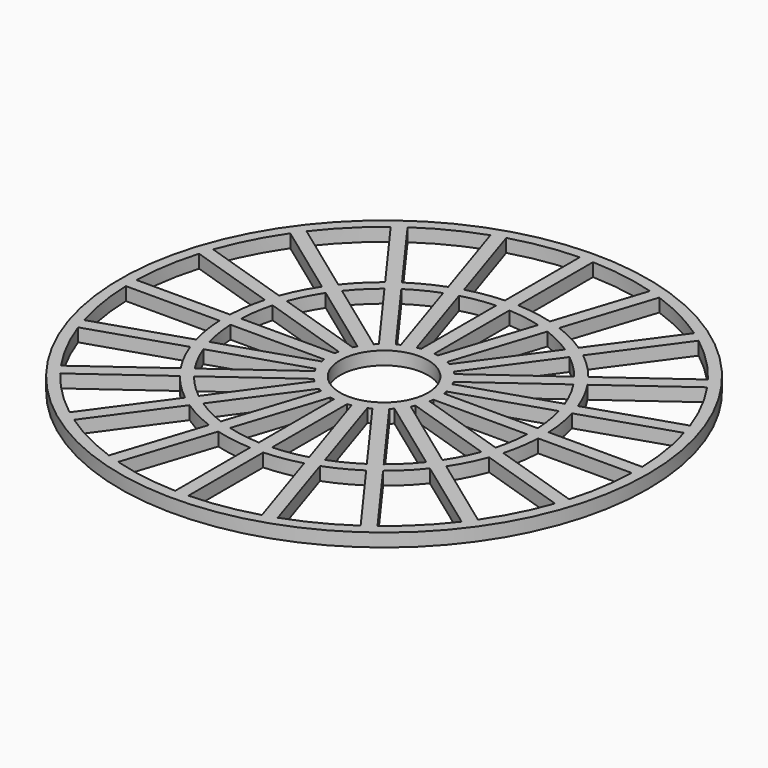
from build123d import *

# Parameters (mm, degrees)
F1_R     = 60
F1_R_2   = 10
F2_DEPTH = 3
F3_DEPTH = 25


with BuildPart() as f2:
    # F1 (on Top) → F2 (new body)
    with BuildSketch(Plane.XY):
        Circle(F1_R)
        Circle(F1_R_2, mode=Mode.SUBTRACT)
    extrude(amount=F2_DEPTH)

    # F0 (on Top) → F3 (cut)
    with BuildSketch(Plane.XY):
        with BuildLine():
            ThreePointArc((10.9213147527, 6.0806976633), (11.1375815524, 5.6748812467), (11.3387754946, 5.2613848257))
            Line((11.3387754946, 5.2613848257), (31.6029143788, 11.8456026764))
            ThreePointArc((31.6029143788, 11.8456026764), (30.0714701914, 15.3221793662), (28.1590208751, 18.6046242465))
            Line((28.1590208751, 18.6046242465), (10.9213147527, 6.0806976633))
        make_face()
        with BuildLine():
            ThreePointArc((8.5077486464, 9.1579589958), (8.8388347648, 8.8388347648), (9.1579589958, 8.5077486464))
            Line((9.1579589958, 8.5077486464), (26.3956651182, 21.0316752296))
            ThreePointArc((26.3956651182, 21.0316752296), (23.864853865, 23.864853865), (21.0316752296, 26.3956651182))
            Line((21.0316752296, 26.3956651182), (8.5077486464, 9.1579589958))
        make_face()
        with BuildLine():
            ThreePointArc((5.2613848257, 11.3387754946), (5.6748812467, 11.1375815524), (6.0806976633, 10.9213147527))
            Line((6.0806976633, 10.9213147527), (18.6046242465, 28.1590208751))
            ThreePointArc((18.6046242465, 28.1590208751), (15.3221793662, 30.0714701914), (11.8456026764, 31.6029143788))
            Line((11.8456026764, 31.6029143788), (5.2613848257, 11.3387754946))
        make_face()
        with BuildLine():
            ThreePointArc((1.5, 12.409673646), (1.955430813, 12.3461042574), (2.4082152768, 12.2658264777))
            Line((2.4082152768, 12.2658264777), (8.9924331275, 32.5299653619))
            ThreePointArc((8.9924331275, 32.5299653619), (5.2796631951, 33.3344814951), (1.5, 33.7166501895))
            Line((1.5, 33.7166501895), (1.5, 12.409673646))
        make_face()
        with BuildLine():
            Line((-32.5299653619, -8.9924331275), (-12.2658264777, -2.4082152768))
            ThreePointArc((-12.2658264777, -2.4082152768), (-12.3461042574, -1.955430813), (-12.409673646, -1.5))
            Line((-12.409673646, -1.5), (-33.7166501895, -1.5))
            ThreePointArc((-33.7166501895, -1.5), (-33.3344814951, -5.2796631951), (-32.5299653619, -8.9924331275))
        make_face()
        with BuildLine():
            Line((-28.1590208751, -18.6046242465), (-10.9213147527, -6.0806976633))
            ThreePointArc((-10.9213147527, -6.0806976633), (-11.1375815524, -5.6748812467), (-11.3387754946, -5.2613848257))
            Line((-11.3387754946, -5.2613848257), (-31.6029143788, -11.8456026764))
            ThreePointArc((-31.6029143788, -11.8456026764), (-30.0714701914, -15.3221793662), (-28.1590208751, -18.6046242465))
        make_face()
        with BuildLine():
            Line((-21.0316752296, -26.3956651182), (-8.5077486464, -9.1579589958))
            ThreePointArc((-8.5077486464, -9.1579589958), (-8.8388347648, -8.8388347648), (-9.1579589958, -8.5077486464))
            Line((-9.1579589958, -8.5077486464), (-26.3956651182, -21.0316752296))
            ThreePointArc((-26.3956651182, -21.0316752296), (-23.864853865, -23.864853865), (-21.0316752296, -26.3956651182))
        make_face()
        with BuildLine():
            Line((-11.8456026764, -31.6029143788), (-5.2613848257, -11.3387754946))
            ThreePointArc((-5.2613848257, -11.3387754946), (-5.6748812467, -11.1375815524), (-6.0806976633, -10.9213147527))
            Line((-6.0806976633, -10.9213147527), (-18.6046242465, -28.1590208751))
            ThreePointArc((-18.6046242465, -28.1590208751), (-15.3221793662, -30.0714701914), (-11.8456026764, -31.6029143788))
        make_face()
        with BuildLine():
            Line((-1.5, -33.7166501895), (-1.5, -12.409673646))
            ThreePointArc((-1.5, -12.409673646), (-1.955430813, -12.3461042574), (-2.4082152768, -12.2658264777))
            Line((-2.4082152768, -12.2658264777), (-8.9924331275, -32.5299653619))
            ThreePointArc((-8.9924331275, -32.5299653619), (-5.2796631951, -33.3344814951), (-1.5, -33.7166501895))
        make_face()
        with BuildLine():
            Line((8.9924331275, -32.5299653619), (2.4082152768, -12.2658264777))
            ThreePointArc((2.4082152768, -12.2658264777), (1.955430813, -12.3461042574), (1.5, -12.409673646))
            Line((1.5, -12.409673646), (1.5, -33.7166501895))
            ThreePointArc((1.5, -33.7166501895), (5.2796631951, -33.3344814951), (8.9924331275, -32.5299653619))
        make_face()
        with BuildLine():
            Line((18.6046242465, -28.1590208751), (6.0806976633, -10.9213147527))
            ThreePointArc((6.0806976633, -10.9213147527), (5.6748812467, -11.1375815524), (5.2613848257, -11.3387754946))
            Line((5.2613848257, -11.3387754946), (11.8456026764, -31.6029143788))
            ThreePointArc((11.8456026764, -31.6029143788), (15.3221793662, -30.0714701914), (18.6046242465, -28.1590208751))
        make_face()
        with BuildLine():
            Line((26.3956651182, -21.0316752296), (9.1579589958, -8.5077486464))
            ThreePointArc((9.1579589958, -8.5077486464), (8.8388347648, -8.8388347648), (8.5077486464, -9.1579589958))
            Line((8.5077486464, -9.1579589958), (21.0316752296, -26.3956651182))
            ThreePointArc((21.0316752296, -26.3956651182), (23.864853865, -23.864853865), (26.3956651182, -21.0316752296))
        make_face()
        with BuildLine():
            Line((31.6029143788, -11.8456026764), (11.3387754946, -5.2613848257))
            ThreePointArc((11.3387754946, -5.2613848257), (11.1375815524, -5.6748812467), (10.9213147527, -6.0806976633))
            Line((10.9213147527, -6.0806976633), (28.1590208751, -18.6046242465))
            ThreePointArc((28.1590208751, -18.6046242465), (30.0714701914, -15.3221793662), (31.6029143788, -11.8456026764))
        make_face()
        with BuildLine():
            ThreePointArc((12.2658264777, 2.4082152768), (12.3461042574, 1.955430813), (12.409673646, 1.5))
            Line((12.409673646, 1.5), (33.7166501895, 1.5))
            ThreePointArc((33.7166501895, 1.5), (33.3344814951, 5.2796631951), (32.5299653619, 8.9924331275))
            Line((32.5299653619, 8.9924331275), (12.2658264777, 2.4082152768))
        make_face()
        with BuildLine():
            Line((33.7166501895, -1.5), (12.409673646, -1.5))
            ThreePointArc((12.409673646, -1.5), (12.3461042574, -1.955430813), (12.2658264777, -2.4082152768))
            Line((12.2658264777, -2.4082152768), (32.5299653619, -8.9924331275))
            ThreePointArc((32.5299653619, -8.9924331275), (33.3344814951, -5.2796631951), (33.7166501895, -1.5))
        make_face()
        with BuildLine():
            ThreePointArc((-12.409673646, 1.5), (-12.3461042574, 1.955430813), (-12.2658264777, 2.4082152768))
            Line((-12.2658264777, 2.4082152768), (-32.5299653619, 8.9924331275))
            ThreePointArc((-32.5299653619, 8.9924331275), (-33.3344814951, 5.2796631951), (-33.7166501895, 1.5))
            Line((-33.7166501895, 1.5), (-12.409673646, 1.5))
        make_face()
        with BuildLine():
            ThreePointArc((-11.3387754946, 5.2613848257), (-11.1375815524, 5.6748812467), (-10.9213147527, 6.0806976633))
            Line((-10.9213147527, 6.0806976633), (-28.1590208751, 18.6046242465))
            ThreePointArc((-28.1590208751, 18.6046242465), (-30.0714701914, 15.3221793662), (-31.6029143788, 11.8456026764))
            Line((-31.6029143788, 11.8456026764), (-11.3387754946, 5.2613848257))
        make_face()
        with BuildLine():
            ThreePointArc((-9.1579589958, 8.5077486464), (-8.8388347648, 8.8388347648), (-8.5077486464, 9.1579589958))
            Line((-8.5077486464, 9.1579589958), (-21.0316752296, 26.3956651182))
            ThreePointArc((-21.0316752296, 26.3956651182), (-23.864853865, 23.864853865), (-26.3956651182, 21.0316752296))
            Line((-26.3956651182, 21.0316752296), (-9.1579589958, 8.5077486464))
        make_face()
        with BuildLine():
            ThreePointArc((-6.0806976633, 10.9213147527), (-5.6748812467, 11.1375815524), (-5.2613848257, 11.3387754946))
            Line((-5.2613848257, 11.3387754946), (-11.8456026764, 31.6029143788))
            ThreePointArc((-11.8456026764, 31.6029143788), (-15.3221793662, 30.0714701914), (-18.6046242465, 28.1590208751))
            Line((-18.6046242465, 28.1590208751), (-6.0806976633, 10.9213147527))
        make_face()
        with BuildLine():
            ThreePointArc((-2.4082152768, 12.2658264777), (-1.955430813, 12.3461042574), (-1.5, 12.409673646))
            Line((-1.5, 12.409673646), (-1.5, 33.7166501895))
            ThreePointArc((-1.5, 33.7166501895), (-5.2796631951, 33.3344814951), (-8.9924331275, 32.5299653619))
            Line((-8.9924331275, 32.5299653619), (-2.4082152768, 12.2658264777))
        make_face()
        with BuildLine():
            ThreePointArc((-36.2189522212, 1.5), (-35.8037023466, 5.6707493577), (-34.9097960149, 9.7656869804))
            Line((-34.9097960149, 9.7656869804), (-55.1306643842, 16.3358453885))
            ThreePointArc((-55.1306643842, 16.3358453885), (-56.7920795842, 8.9949817398), (-57.4804314528, 1.5))
            Line((-57.4804314528, 1.5), (-36.2189522212, 1.5))
        make_face()
        with BuildLine():
            Line((-55.1306643842, -16.3358453885), (-34.9097960149, -9.7656869804))
            ThreePointArc((-34.9097960149, -9.7656869804), (-35.8037023466, -5.6707493577), (-36.2189522212, -1.5))
            Line((-36.2189522212, -1.5), (-57.4804314528, -1.5))
            ThreePointArc((-57.4804314528, -1.5), (-56.7920795842, -8.9949817398), (-55.1306643842, -16.3358453885))
        make_face()
        with BuildLine():
            Line((-47.3843237678, -32.5726244118), (-30.1834257438, -20.0754404775))
            ThreePointArc((-30.1834257438, -20.0754404775), (-32.2989865018, -16.4571556156), (-33.9827450318, -12.6188565292))
            Line((-33.9827450318, -12.6188565292), (-54.2036134011, -19.1890149374))
            ThreePointArc((-54.2036134011, -19.1890149374), (-51.2328751408, -26.104453735), (-47.3843237678, -32.5726244118))
        make_face()
        with BuildLine():
            Line((-34.9996753949, -45.6209680109), (-22.5024914607, -28.4200699869))
            ThreePointArc((-22.5024914607, -28.4200699869), (-25.632620818, -25.632620818), (-28.4200699869, -22.5024914607))
            Line((-28.4200699869, -22.5024914607), (-45.6209680109, -34.9996753949))
            ThreePointArc((-45.6209680109, -34.9996753949), (-40.6586399182, -40.6586399182), (-34.9996753949, -45.6209680109))
        make_face()
        with BuildLine():
            Line((-19.1890149374, -54.2036134011), (-12.6188565292, -33.9827450318))
            ThreePointArc((-12.6188565292, -33.9827450318), (-16.4571556156, -32.2989865018), (-20.0754404775, -30.1834257438))
            Line((-20.0754404775, -30.1834257438), (-32.5726244118, -47.3843237678))
            ThreePointArc((-32.5726244118, -47.3843237678), (-26.104453735, -51.2328751408), (-19.1890149374, -54.2036134011))
        make_face()
        with BuildLine():
            Line((-1.5, -57.4804314528), (-1.5, -36.2189522212))
            ThreePointArc((-1.5, -36.2189522212), (-5.6707493577, -35.8037023466), (-9.7656869804, -34.9097960149))
            Line((-9.7656869804, -34.9097960149), (-16.3358453885, -55.1306643842))
            ThreePointArc((-16.3358453885, -55.1306643842), (-8.9949817398, -56.7920795842), (-1.5, -57.4804314528))
        make_face()
        with BuildLine():
            Line((16.3358453885, -55.1306643842), (9.7656869804, -34.9097960149))
            ThreePointArc((9.7656869804, -34.9097960149), (5.6707493577, -35.8037023466), (1.5, -36.2189522212))
            Line((1.5, -36.2189522212), (1.5, -57.4804314528))
            ThreePointArc((1.5, -57.4804314528), (8.9949817398, -56.7920795842), (16.3358453885, -55.1306643842))
        make_face()
        with BuildLine():
            Line((32.5726244118, -47.3843237678), (20.0754404775, -30.1834257438))
            ThreePointArc((20.0754404775, -30.1834257438), (16.4571556156, -32.2989865018), (12.6188565292, -33.9827450318))
            Line((12.6188565292, -33.9827450318), (19.1890149374, -54.2036134011))
            ThreePointArc((19.1890149374, -54.2036134011), (26.104453735, -51.2328751408), (32.5726244118, -47.3843237678))
        make_face()
        with BuildLine():
            Line((45.6209680109, -34.9996753949), (28.4200699869, -22.5024914607))
            ThreePointArc((28.4200699869, -22.5024914607), (25.632620818, -25.632620818), (22.5024914607, -28.4200699869))
            Line((22.5024914607, -28.4200699869), (34.9996753949, -45.6209680109))
            ThreePointArc((34.9996753949, -45.6209680109), (40.6586399182, -40.6586399182), (45.6209680109, -34.9996753949))
        make_face()
        with BuildLine():
            Line((54.2036134011, -19.1890149374), (33.9827450318, -12.6188565292))
            ThreePointArc((33.9827450318, -12.6188565292), (32.2989865018, -16.4571556156), (30.1834257438, -20.0754404775))
            Line((30.1834257438, -20.0754404775), (47.3843237678, -32.5726244118))
            ThreePointArc((47.3843237678, -32.5726244118), (51.2328751408, -26.104453735), (54.2036134011, -19.1890149374))
        make_face()
        with BuildLine():
            Line((57.4804314528, -1.5), (36.2189522212, -1.5))
            ThreePointArc((36.2189522212, -1.5), (35.8037023466, -5.6707493577), (34.9097960149, -9.7656869804))
            Line((34.9097960149, -9.7656869804), (55.1306643842, -16.3358453885))
            ThreePointArc((55.1306643842, -16.3358453885), (56.7920795842, -8.9949817398), (57.4804314528, -1.5))
        make_face()
        with BuildLine():
            ThreePointArc((34.9097960149, 9.7656869804), (35.8037023466, 5.6707493577), (36.2189522212, 1.5))
            Line((36.2189522212, 1.5), (57.4804314528, 1.5))
            ThreePointArc((57.4804314528, 1.5), (56.7920795842, 8.9949817398), (55.1306643842, 16.3358453885))
            Line((55.1306643842, 16.3358453885), (34.9097960149, 9.7656869804))
        make_face()
        with BuildLine():
            ThreePointArc((30.1834257438, 20.0754404775), (32.2989865018, 16.4571556156), (33.9827450318, 12.6188565292))
            Line((33.9827450318, 12.6188565292), (54.2036134011, 19.1890149374))
            ThreePointArc((54.2036134011, 19.1890149374), (51.2328751408, 26.104453735), (47.3843237678, 32.5726244118))
            Line((47.3843237678, 32.5726244118), (30.1834257438, 20.0754404775))
        make_face()
        with BuildLine():
            ThreePointArc((22.5024914607, 28.4200699869), (25.632620818, 25.632620818), (28.4200699869, 22.5024914607))
            Line((28.4200699869, 22.5024914607), (45.6209680109, 34.9996753949))
            ThreePointArc((45.6209680109, 34.9996753949), (40.6586399182, 40.6586399182), (34.9996753949, 45.6209680109))
            Line((34.9996753949, 45.6209680109), (22.5024914607, 28.4200699869))
        make_face()
        with BuildLine():
            ThreePointArc((12.6188565292, 33.9827450318), (16.4571556156, 32.2989865018), (20.0754404775, 30.1834257438))
            Line((20.0754404775, 30.1834257438), (32.5726244118, 47.3843237678))
            ThreePointArc((32.5726244118, 47.3843237678), (26.104453735, 51.2328751408), (19.1890149374, 54.2036134011))
            Line((19.1890149374, 54.2036134011), (12.6188565292, 33.9827450318))
        make_face()
        with BuildLine():
            ThreePointArc((1.5, 36.2189522212), (5.6707493577, 35.8037023466), (9.7656869804, 34.9097960149))
            Line((9.7656869804, 34.9097960149), (16.3358453885, 55.1306643842))
            ThreePointArc((16.3358453885, 55.1306643842), (8.9949817398, 56.7920795842), (1.5, 57.4804314528))
            Line((1.5, 57.4804314528), (1.5, 36.2189522212))
        make_face()
        with BuildLine():
            ThreePointArc((-9.7656869804, 34.9097960149), (-5.6707493577, 35.8037023466), (-1.5, 36.2189522212))
            Line((-1.5, 36.2189522212), (-1.5, 57.4804314528))
            ThreePointArc((-1.5, 57.4804314528), (-8.9949817398, 56.7920795842), (-16.3358453885, 55.1306643842))
            Line((-16.3358453885, 55.1306643842), (-9.7656869804, 34.9097960149))
        make_face()
        with BuildLine():
            ThreePointArc((-20.0754404775, 30.1834257438), (-16.4571556156, 32.2989865018), (-12.6188565292, 33.9827450318))
            Line((-12.6188565292, 33.9827450318), (-19.1890149374, 54.2036134011))
            ThreePointArc((-19.1890149374, 54.2036134011), (-26.104453735, 51.2328751408), (-32.5726244118, 47.3843237678))
            Line((-32.5726244118, 47.3843237678), (-20.0754404775, 30.1834257438))
        make_face()
        with BuildLine():
            ThreePointArc((-28.4200699869, 22.5024914607), (-25.632620818, 25.632620818), (-22.5024914607, 28.4200699869))
            Line((-22.5024914607, 28.4200699869), (-34.9996753949, 45.6209680109))
            ThreePointArc((-34.9996753949, 45.6209680109), (-40.6586399182, 40.6586399182), (-45.6209680109, 34.9996753949))
            Line((-45.6209680109, 34.9996753949), (-28.4200699869, 22.5024914607))
        make_face()
        with BuildLine():
            ThreePointArc((-33.9827450318, 12.6188565292), (-32.2989865018, 16.4571556156), (-30.1834257438, 20.0754404775))
            Line((-30.1834257438, 20.0754404775), (-47.3843237678, 32.5726244118))
            ThreePointArc((-47.3843237678, 32.5726244118), (-51.2328751408, 26.104453735), (-54.2036134011, 19.1890149374))
            Line((-54.2036134011, 19.1890149374), (-33.9827450318, 12.6188565292))
        make_face()
    extrude(amount=F3_DEPTH, mode=Mode.SUBTRACT)


solid = f2.part
